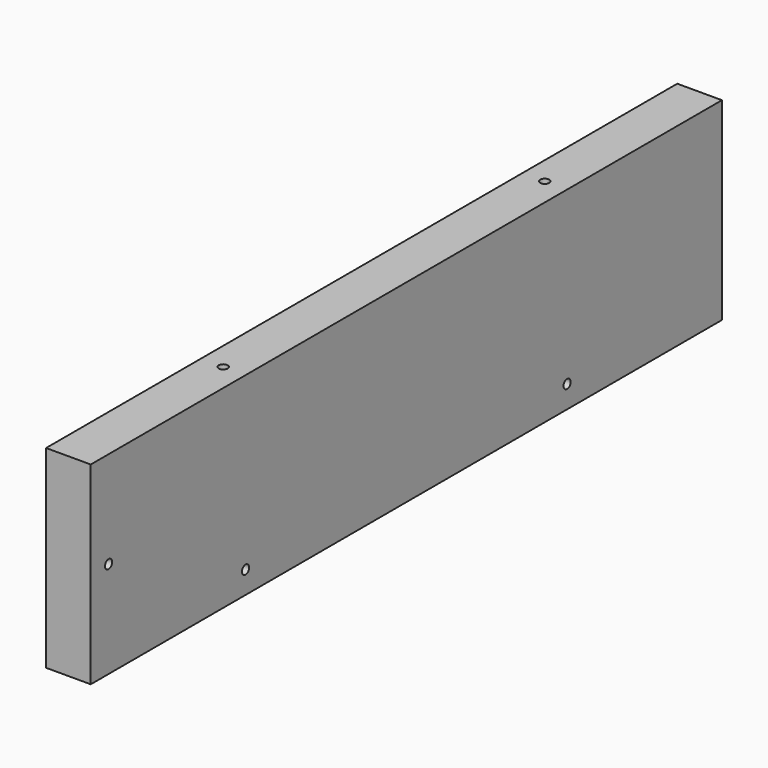
from build123d import *

# Parameters (mm, degrees)
F0_W      = 530
F0_H      = 130
F1_DEPTH  = 30
F2_R      = 3
F3_DEPTH  = 12
F4_R      = 3
F5_DEPTH  = 11
F6_R      = 3
F7_DEPTH  = 12
F8_R      = 3
F9_DEPTH  = 10
F10_R     = 3
F11_DEPTH = 12


with BuildPart() as f1:
    # F0 (on Right) → F1 (new body)
    with BuildSketch(Plane.YZ):
        with Locations((265, 65)):
            Rectangle(F0_W, F0_H)
    extrude(amount=F1_DEPTH)

    # F2 (on face) → F3 (cut)
    with BuildSketch(Plane(origin=(0, 0, 0), x_dir=(1, 0, 0), z_dir=(0, 0, -1))):
        with Locations((15, -130)):
            Circle(F2_R)
    extrude(amount=-F3_DEPTH, mode=Mode.SUBTRACT)

    # F4 (on face) → F5 (cut)
    with BuildSketch(Plane(origin=(0, 0, 0), x_dir=(1, 0, 0), z_dir=(0, 0, -1))):
        with Locations((15, -400)):
            Circle(F4_R)
    extrude(amount=-F5_DEPTH, mode=Mode.SUBTRACT)

    # F6 (on face) → F7 (cut)
    with BuildSketch(Plane.XY.offset(130)):
        with Locations((15, 130)):
            Circle(F6_R)
        with Locations((15, 400)):
            Circle(F6_R)
    extrude(amount=-F7_DEPTH, mode=Mode.SUBTRACT)

    # F8 (on face) → F9 (cut)
    with BuildSketch(Plane.YZ.offset(30)):
        with Locations((400, 15)):
            Circle(F8_R)
        with Locations((130, 15)):
            Circle(F8_R)
    extrude(amount=-F9_DEPTH, mode=Mode.SUBTRACT)

    # F10 (on face) → F11 (cut)
    with BuildSketch(Plane.YZ.offset(30)):
        with Locations((15, 65)):
            Circle(F10_R)
    extrude(amount=-F11_DEPTH, mode=Mode.SUBTRACT)


solid = f1.part
